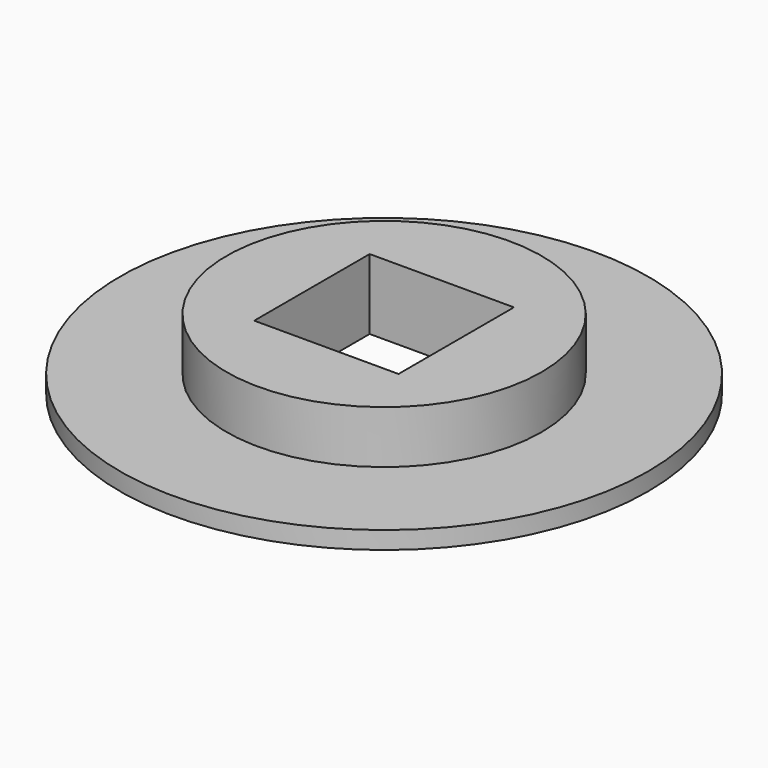
from build123d import *

# Parameters (mm, degrees)
SKETCH_R     = 8.95
SKETCH_W     = 8.2
SKETCH_H     = 8.2
PAD_DEPTH    = 4
SKETCH001_R  = 15
SKETCH001_W  = 8.2
SKETCH001_H  = 8.2
PAD001_DEPTH = 1


with BuildPart() as part:
    # Sketch → Pad (new body)
    with BuildSketch(Plane.XY):
        Circle(SKETCH_R)
        Rectangle(SKETCH_W, SKETCH_H, mode=Mode.SUBTRACT)
    extrude(amount=PAD_DEPTH)

    # Sketch001 → Pad001 (join)
    with BuildSketch(Plane.XY):
        Circle(SKETCH001_R)
        Rectangle(SKETCH001_W, SKETCH001_H, mode=Mode.SUBTRACT)
    extrude(amount=PAD001_DEPTH)


solid = part.part
